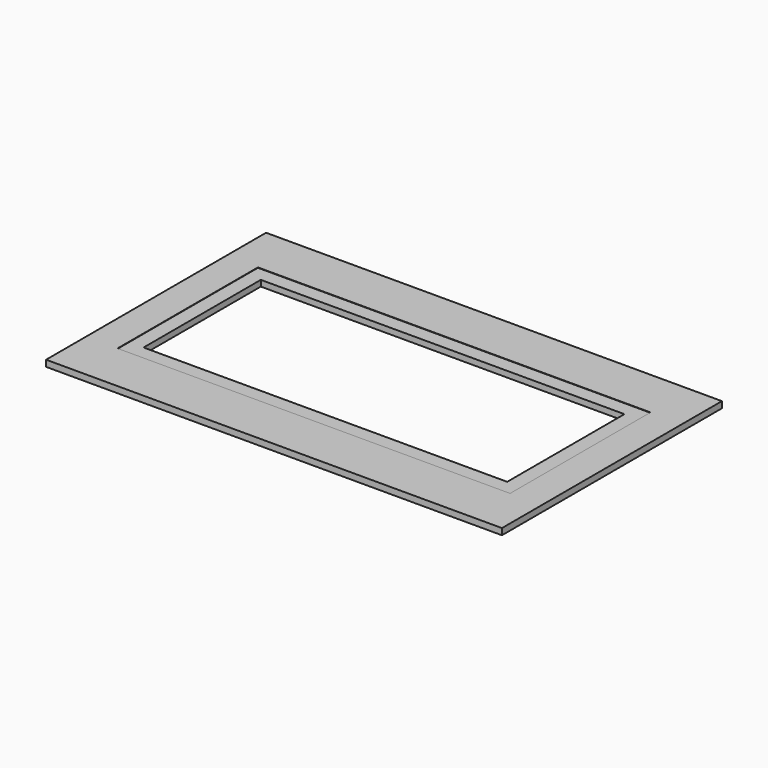
from build123d import *

# Parameters (mm, degrees)
F0_W     = 1600.2
F0_H     = 965.2
F0_W_2   = 1377.95
F0_H_2   = 615.95
F1_DEPTH = 22.225
F0_W_3   = 1276.35
F0_H_3   = 514.35
F2_DEPTH = 20.955


with BuildPart() as f1:
    # F0 (on Top) → F1 (new body)
    with BuildSketch(Plane.XY):
        with Locations((254.799641, 535.162499)):
            Rectangle(F0_W, F0_H)
        with Locations((254.799641, 535.162499)):
            Rectangle(F0_W_2, F0_H_2, mode=Mode.SUBTRACT)
    extrude(amount=F1_DEPTH)

    # F0 (on Top) → F2 (join)
    with BuildSketch(Plane.XY):
        with Locations((254.799641, 535.162499)):
            Rectangle(F0_W_2, F0_H_2)
        with Locations((254.799641, 535.162499)):
            Rectangle(F0_W_3, F0_H_3, mode=Mode.SUBTRACT)
    extrude(amount=F2_DEPTH)


solid = f1.part
